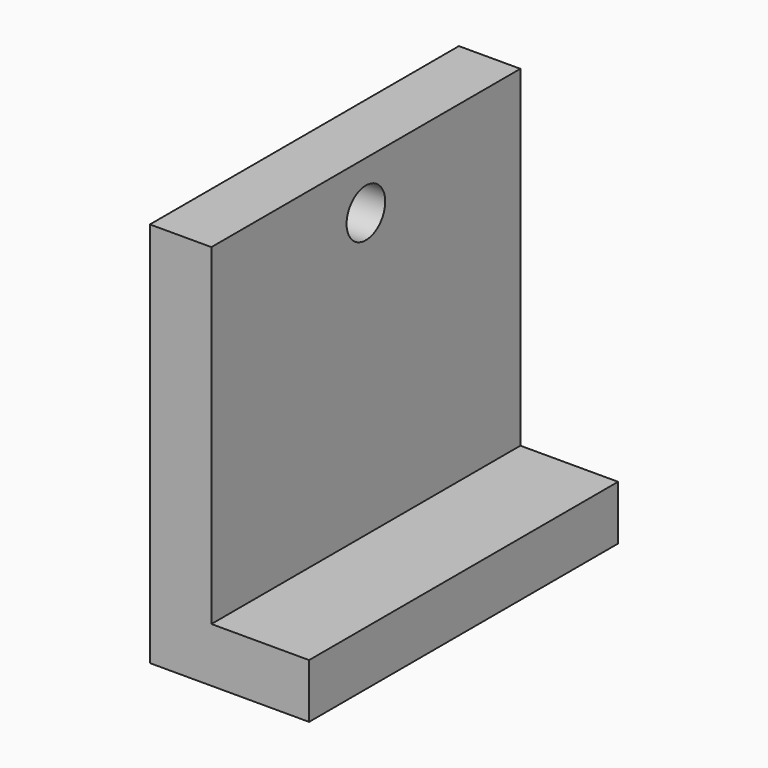
from build123d import *

# Parameters (mm, degrees)
F0_W     = 25.4
F0_H     = 25.4
F1_DEPTH = 25.4
F2_W     = 7.143348
F2_H     = 25.4
F3_DEPTH = 25.4
F4_R     = 1.5875
F5_DEPTH = 25.4


with BuildPart() as f1:
    # F0 (on Front) → F1 (new body)
    with BuildSketch(Plane.XZ):
        with Locations((12.7, 12.7)):
            Rectangle(F0_W, F0_H)
    extrude(amount=F1_DEPTH)

    # F2 (on face) → F3 (cut)
    with BuildSketch(Plane.XZ.offset(25.4)):
        with Locations((3.571674, 12.7)):
            Rectangle(F2_W, F2_H)
        Polygon((25.4, 25.4), (11.18654, 25.4), (11.18654, 3.579036), (17.612327, 3.579036), (17.612327, 0), (25.4, 0), align=None)
    extrude(amount=-F3_DEPTH, mode=Mode.SUBTRACT)

    # F4 (on face) → F5 (cut)
    with BuildSketch(Plane(origin=(7.143348, 0, 0), x_dir=(0, -1, 0), z_dir=(-1, 0, 0))):
        with Locations((12.7, 22.225)):
            Circle(F4_R)
    extrude(amount=-F5_DEPTH, mode=Mode.SUBTRACT)


solid = f1.part
